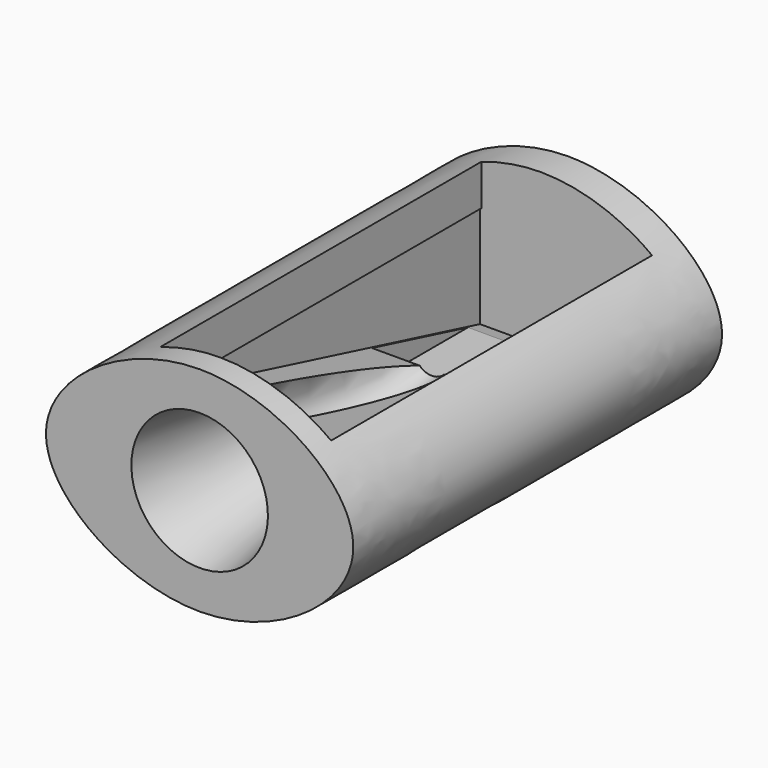
from build123d import *

# Parameters (mm, degrees)
F1_DEPTH       = 27
F3_W           = 10
F3_H           = 23.5
F4_DEPTH       = 3
F9_W           = 5
F9_H           = 8
F10_DEPTH      = 4
F11_DEPTH      = 4
F13_DEPTH      = 9.82609
F13_DEPTH_BACK = 0.22331


with BuildPart() as f1:
    # F0 (on Front) → F1 (new body)
    with BuildSketch(Plane.XZ):
        with BuildLine():
            add(Edge.make_bspline(
                [(-9, 0), (-9, -3.125), (-4.5, -6.25), (0, -6.25)],
                knots=[0.5, 0.5, 0.5, 0.5, 0.75, 0.75, 0.75, 0.75], degree=3))
            add(Edge.make_bspline(
                [(0, -6.25), (4.5, -6.25), (9, -3.125), (9, 0)],
                knots=[0.75, 0.75, 0.75, 0.75, 1, 1, 1, 1], degree=3))
            add(Edge.make_bspline(
                [(9, 0), (9, 3.125), (4.5, 6.25), (0, 6.25)],
                knots=[0, 0, 0, 0, 0.25, 0.25, 0.25, 0.25], degree=3))
            add(Edge.make_bspline(
                [(0, 6.25), (-4.5, 6.25), (-9, 3.125), (-9, 0)],
                knots=[0.25, 0.25, 0.25, 0.25, 0.5, 0.5, 0.5, 0.5], degree=3))
        make_face()
    extrude(amount=F1_DEPTH)

    # F3 (on offset) → F4 (cut)
    with BuildSketch(Plane.XY.offset(6.25)):
        with Locations((1.5, -13.75)):
            Rectangle(F3_W, F3_H)
    extrude(amount=-F4_DEPTH, mode=Mode.SUBTRACT)

    # F6 (on Right) → F7 (revolve, cut)
    with BuildSketch(Plane.YZ):
        Polygon((-27, 4), (-27, 0), (-10, 0), (-10, 1), align=None)
    revolve(axis=Axis((0, -18.5, 0), (0, 1, 0)), mode=Mode.SUBTRACT)

    # F9 (on offset) → F10 (cut)
    with BuildSketch(Plane.XY.offset(-2.5)):
        with Locations((-1, -6)):
            Rectangle(F9_W, F9_H)
    extrude(amount=F10_DEPTH, mode=Mode.SUBTRACT)

    # F9 (on offset) → F11 (cut)
    with BuildSketch(Plane.XY.offset(-2.5)):
        with Locations((-1, -6)):
            Rectangle(F9_W, F9_H)
    extrude(amount=F11_DEPTH, mode=Mode.SUBTRACT)

    # F12 (on offset) → F13 (cut, two sides)
    with BuildSketch(Plane.YZ.offset(6.25)) as f13_sk:
        Polygon((-2, -2.75), (-2, 3.25), (-25.5, 3.25), align=None)
    extrude(amount=-F13_DEPTH, mode=Mode.SUBTRACT)
    extrude(f13_sk.sketch, amount=F13_DEPTH_BACK, mode=Mode.SUBTRACT)


solid = f1.part
